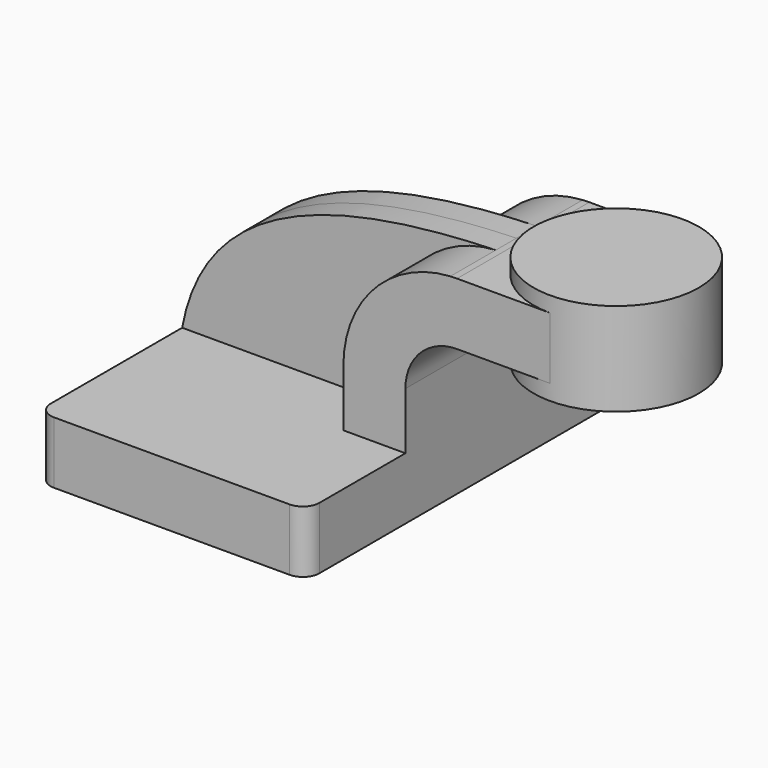
from build123d import *

# Parameters (mm, degrees)
F1_DEPTH = 63.5
F2_DEPTH = 7.9375
F0_W     = 25.4
F0_H     = 19.05
F3_DEPTH = 25.4
F5_R     = 5.08


with BuildPart() as f1:
    # F0 (on Front) → F1 (new body, symmetric)
    with BuildSketch(Plane.XZ):
        Polygon((-41.275, -9.525), (41.275, -9.525), (41.275, 9.525), (22.225, 9.525), (-41.275, 9.525), align=None)
    extrude(amount=F1_DEPTH, both=True)

    # F0 (on Front) → F2 (join, symmetric)
    with BuildSketch(Plane.XZ):
        with BuildLine():
            add(Edge.make_bspline(
                [(-41.275, 9.525), (-33.9425614897, 49.4436582621), (6.8530607315, 60.3077269566), (55.0914084511, 61.8644772166)],
                knots=[0, 0, 0, 0, 109.9439298496, 109.9439298496, 109.9439298496, 109.9439298496], degree=3))
            Line((-41.275, 9.525), (22.225, 9.525))
            Line((22.225, 9.525), (22.225, 27.0002))
            ThreePointArc((22.225, 27.0002), (31.7368937864, 50.9570290384), (55.0914084511, 61.8644772166))
        make_face()
    extrude(amount=F2_DEPTH, both=True)

    # F0 (on Front) → F3 (join, symmetric)
    with BuildSketch(Plane.XZ):
        with BuildLine():
            Line((22.225, 9.525), (41.275, 9.525))
            Line((41.275, 9.525), (41.275, 27.0002))
            ThreePointArc((41.275, 27.0002), (45.9246798487, 38.2255201513), (57.15, 42.8752))
            Line((57.15, 42.8752), (60.325, 42.8752))
            Line((60.325, 42.8752), (60.325, 61.9252))
            Line((60.325, 61.9252), (57.15, 61.9252))
            add(Edge.make_bspline(
                [(55.0914084511, 61.8644772166), (55.7761308376, 61.8865746101), (56.4623528267, 61.9067967122), (57.15, 61.9252)],
                knots=[109.9439298496, 109.9439298496, 109.9439298496, 109.9439298496, 111.5045361635, 111.5045361635, 111.5045361635, 111.5045361635], degree=3))
            ThreePointArc((55.0914084511, 61.8644772166), (31.7368937864, 50.9570290384), (22.225, 27.0002))
            Line((22.225, 27.0002), (22.225, 9.525))
        make_face()
        with Locations((73.025, 52.4002)):
            Rectangle(F0_W, F0_H)
    extrude(amount=F3_DEPTH, both=True)

    # F0 (on Front) → F4 (revolve)
    with BuildSketch(Plane.XZ):
        Polygon((85.725, 61.9252), (85.725, 42.8752), (85.725, 38.1), (111.125, 38.1), (111.125, 66.675), (85.725, 66.675), align=None)
    revolve(axis=Axis((85.725, 0, 52.3875), (0, 0, 1)))

    # F5
    f5_edges = [f1.edges().sort_by_distance(p)[0] for p in [
        (-41.275, -63.5, 0),
        (41.275, -63.5, 0),
        (-41.275, 63.5, 0),
        (41.275, 63.5, 0),
    ]]
    fillet(f5_edges, radius=F5_R)


solid = f1.part
